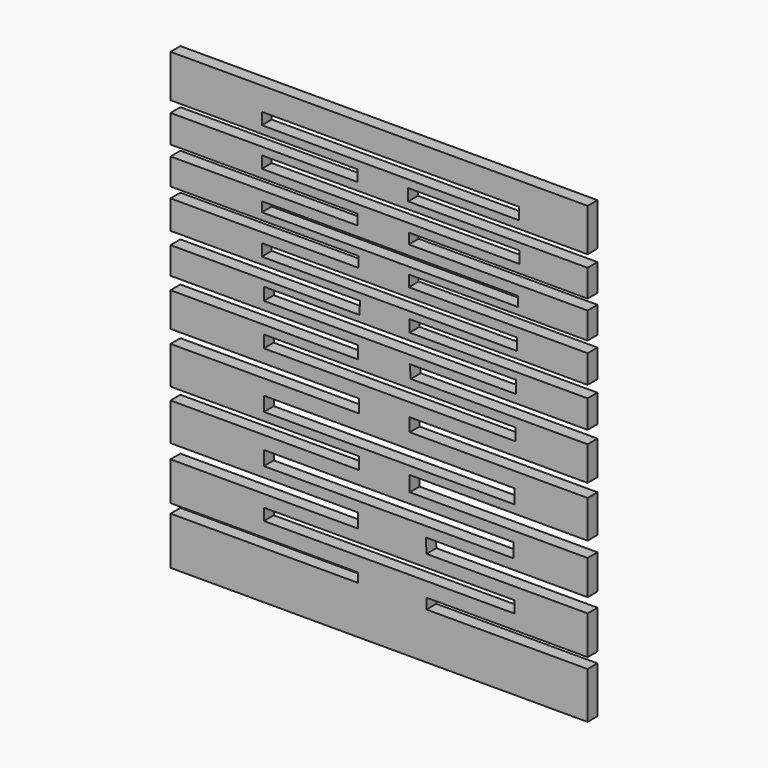
from build123d import *

# Parameters (mm, degrees)
F0_W     = 71.032305
F0_H     = 3.316156
F0_W_2   = 70.65738
F0_H_2   = 4.029283
F0_W_3   = 70.945185
F0_H_3   = 4.029279
F0_W_4   = 71.23299
F0_H_4   = 3.453669
F0_W_5   = 71.426928
F0_H_5   = 3.551615
F0_W_6   = 72.216179
F0_H_6   = 3.354305
F0_W_7   = 72.610803
F0_H_7   = 2.762366
F0_W_8   = 73.005423
F0_H_8   = 3.354303
F0_W_9   = 72.808113
F0_H_9   = 3.354299
F1_DEPTH = 3.5


with BuildPart() as f1:
    # F0 (on Front) → F1 (new body)
    with BuildSketch(Plane.XZ):
        Polygon((56.841634, 59.431892), (-61.265364, 59.431892), (-61.265364, 47.354873), (-8.385758, 47.354873), (-8.385758, 44.197883), (-61.265364, 44.197883), (-61.265364, 36.305401), (-8.385758, 36.305401), (-8.385758, 33.345722), (-61.265364, 33.345722), (-61.265364, 25.847867), (-7.991134, 25.847867), (-7.991134, 22.888189), (-61.265364, 22.888189), (-61.265364, 14.798397), (-7.596511, 14.798397), (-7.793822, 11.246782), (-61.265364, 11.246782), (-61.265364, 3.597572), (-8.202464, 3.597572), (-8.202464, 0), (-61.265364, 0), (-61.265364, -9.641493), (-7.914659, -9.641493), (-7.914659, -13.382968), (-61.265364, -13.382968), (-61.265364, -24.031783), (-7.914659, -24.031783), (-7.914659, -27.485449), (-61.265364, -27.485449), (-61.265364, -38.134262), (-8.202464, -38.134262), (-8.202464, -42.163543), (-61.265364, -42.163543), (-61.265364, -53.076919), (-8.202464, -53.076919), (-8.202464, -55.690415), (-61.265364, -55.690415), (-61.265364, -69.217287), (56.841634, -69.217287), (56.841634, -56.036595), (11.206436, -56.036595), (11.206436, -53.076919), (56.841634, -53.076919), (56.841634, -42.163543), (11.206436, -42.163543), (11.080521, -38.134262), (56.841634, -38.134262), (56.841634, -28.348867), (6.475631, -28.348867), (6.475631, -24.031783), (56.841634, -24.031783), (56.841634, -13.382968), (6.475631, -13.382968), (6.475631, -9.641493), (56.841634, -9.641493), (56.841634, 0), (6.763437, 0), (6.475631, 3.597572), (56.841634, 3.597572), (56.841634, 11.444095), (6.412639, 11.444095), (6.412639, 14.798397), (56.841634, 14.798397), (56.841634, 22.690875), (6.215328, 22.690875), (6.215328, 25.847867), (56.841634, 25.847867), (56.841634, 33.345722), (6.215328, 33.345722), (6.215328, 36.305401), (56.841634, 36.305401), (56.841634, 44.000566), (6.018014, 44.000566), (6.018014, 47.354873), (56.841634, 47.354873), align=None)
        with Locations((0.690593, -47.27529)):
            Rectangle(F0_W, F0_H, mode=Mode.SUBTRACT)
        with Locations((0.50313, -33.241566)):
            Rectangle(F0_W_2, F0_H_2, mode=Mode.SUBTRACT)
        with Locations((0.647033, -19.714693)):
            Rectangle(F0_W_3, F0_H_3, mode=Mode.SUBTRACT)
        with Locations((0.790935, -4.173183)):
            Rectangle(F0_W_4, F0_H_4, mode=Mode.SUBTRACT)
        with Locations((0.887904, 7.695167)):
            Rectangle(F0_W_5, F0_H_5, mode=Mode.SUBTRACT)
        with Locations((0.690593, 18.448668)):
            Rectangle(F0_W_6, F0_H_6, mode=Mode.SUBTRACT)
        with Locations((0.887905, 29.202171)):
            Rectangle(F0_W_7, F0_H_7, mode=Mode.SUBTRACT)
        with Locations((1.085214, 40.350296)):
            Rectangle(F0_W_8, F0_H_8, mode=Mode.SUBTRACT)
        with Locations((0.98656, 51.202455)):
            Rectangle(F0_W_9, F0_H_9, mode=Mode.SUBTRACT)
    extrude(amount=F1_DEPTH)


solid = f1.part
